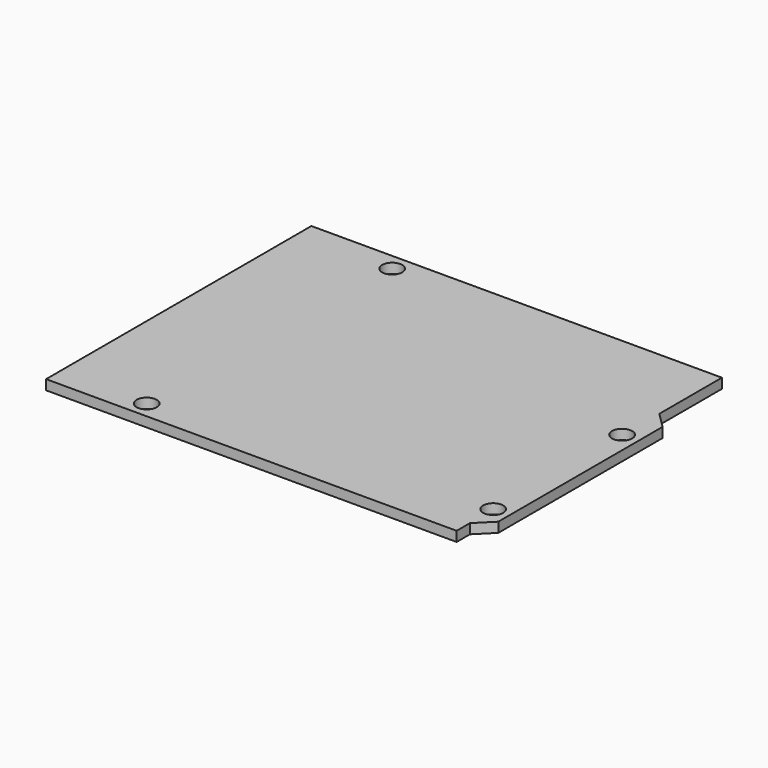
from build123d import *

# Parameters (mm, degrees)
F1_DEPTH = 1.588
F2_R     = 1.6195
F3_DEPTH = 1.589


with BuildPart() as f1:
    # F0 (on Top) → F1 (new body)
    with BuildSketch(Plane.XY):
        Polygon((33.02, 25.726817), (-33.02, 25.726817), (-33.02, -27.613183), (33.02, -27.613183), (33.02, -24.946183), (35.56, -22.406183), (35.56, 10.613817), (33.02, 13.153817), align=None)
    extrude(amount=F1_DEPTH)

    # F2 (on face) → F3 (cut, through all)
    with BuildSketch(Plane.XY.offset(1.588)):
        with Locations((-17.85, 23.015817)):
            Circle(F2_R)
        with Locations((32.925, 5.775817)):
            Circle(F2_R)
        with Locations((32.925, -20.152183)):
            Circle(F2_R)
        with Locations((-19.006, -24.902183)):
            Circle(F2_R)
    extrude(amount=-F3_DEPTH, mode=Mode.SUBTRACT)


solid = f1.part
